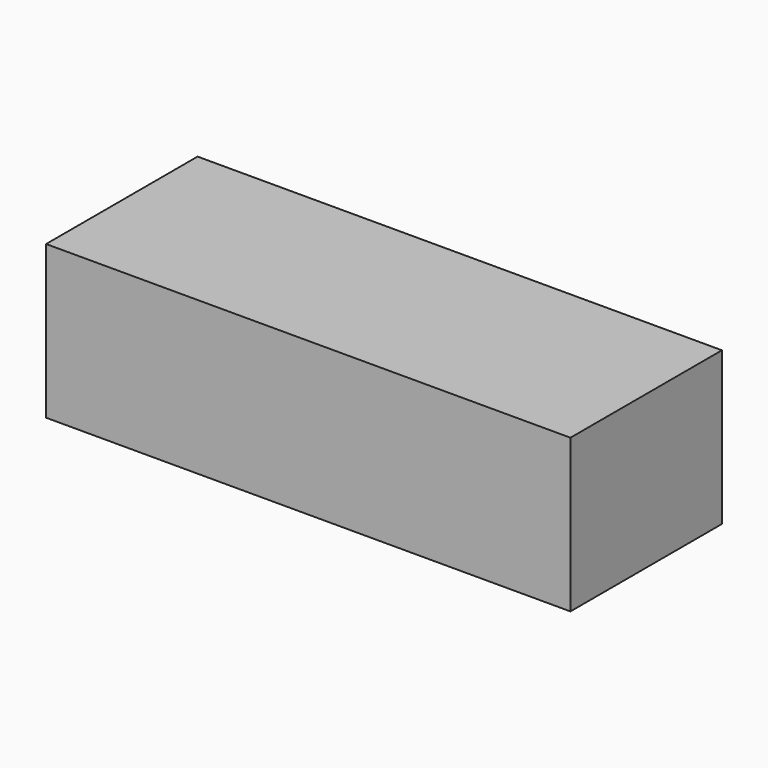
from build123d import *

# Parameters (mm, degrees)
F0_W      = 32
F0_H      = 9
F0_W_2    = 1
F1_DEPTH  = 6.5
F2_DEPTH  = 5.5
F3_DEPTH  = 4
F4_W      = 1
F4_H      = 1
F5_DEPTH  = 35
F6_DEPTH  = 33
F9_DEPTH  = 2
F4_W_2    = 9
F10_DEPTH = 33


with BuildPart() as f1:
    # F0 (on Top) → F1 (new body)
    with BuildSketch(Plane.XY):
        Polygon((4.2322745472, -4.5), (-27.7677254528, -4.5), (-28.7677254528, -4.5), (-28.7677254528, -6.5), (7.2322745472, -6.5), (7.2322745472, 6.5), (-28.7677254528, 6.5), (-28.7677254528, 4.5), (-27.7677254528, 4.5), (4.2322745472, 4.5), align=None)
        with Locations((-11.7677254528, 0)):
            Rectangle(F0_W, F0_H)
        with Locations((-28.2677254528, 0)):
            Rectangle(F0_W_2, F0_H)
    extrude(amount=F1_DEPTH)

    # F0 (on Top) → F2 (cut)
    with BuildSketch(Plane.XY):
        with Locations((-11.7677254528, 0)):
            Rectangle(F0_W, F0_H)
    extrude(amount=F2_DEPTH, mode=Mode.SUBTRACT)

    # F0 (on Top) → F3 (join)
    with BuildSketch(Plane.XY):
        Polygon((4.2322745472, -4.5), (-27.7677254528, -4.5), (-28.7677254528, -4.5), (-28.7677254528, -6.5), (7.2322745472, -6.5), (7.2322745472, 6.5), (-28.7677254528, 6.5), (-28.7677254528, 4.5), (-27.7677254528, 4.5), (4.2322745472, 4.5), align=None)
    extrude(amount=-F3_DEPTH)

    # F4 (on face) → F5 (cut)
    with BuildSketch(Plane(origin=(-28.7677254528, 0, 0), x_dir=(0, -1, 0), z_dir=(-1, 0, 0))):
        with Locations((-5, -1.5)):
            Rectangle(F4_W, F4_H)
    extrude(amount=-F5_DEPTH, mode=Mode.SUBTRACT)

    # F4 (on face) → F6 (cut)
    with BuildSketch(Plane(origin=(-28.7677254528, 0, 0), x_dir=(0, -1, 0), z_dir=(-1, 0, 0))):
        with Locations((-5, 1.5)):
            Rectangle(F4_W, F4_H)
        Polygon((-4.5, 1), (-4.5, 0), (0, 0), (0, 2), (-4.5, 2), align=None)
    extrude(amount=-F6_DEPTH, mode=Mode.SUBTRACT)

    # F7: F1 across plane


with BuildPart() as f1_1:
    add(f1.part)
    add(f1.part.mirror(Plane.XZ), mode=Mode.INTERSECT)

    # F8 (on face) → F9 (cut)
    with BuildSketch(Plane(origin=(4.2322745472, 0, 0), x_dir=(0, -1, 0), z_dir=(-1, 0, 0))):
        Polygon((4.5, 0), (-4.5, 0), (-4.5, -1), (-4.5, -2), (-4.5, -3), (4.5, -3), (4.5, -2), (4.5, -1), align=None)
    extrude(amount=-F9_DEPTH, mode=Mode.SUBTRACT)

    # F4 (on face) → F10 (join, through all)
    with BuildSketch(Plane(origin=(-28.7677254528, 0, 0), x_dir=(0, -1, 0), z_dir=(-1, 0, 0))):
        with Locations((0, -3.5)):
            Rectangle(F4_W_2, F4_H)
    extrude(amount=-F10_DEPTH)


solid = f1_1.part
